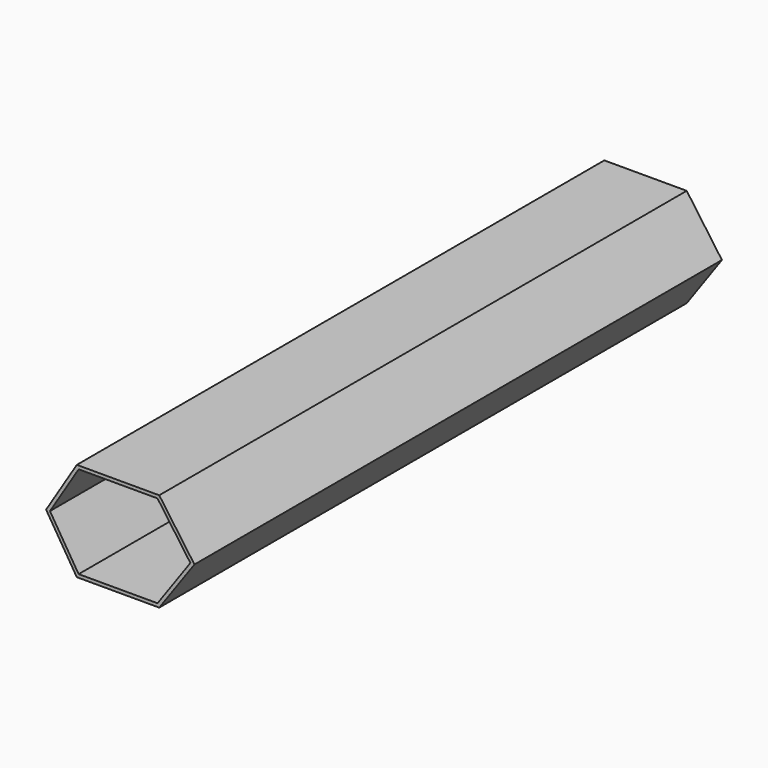
from build123d import *

# Parameters (mm, degrees)
F1_DEPTH = 254
F2_T     = -2.54


with BuildPart() as f1:
    # F0 (on Front) → F1 (new body, symmetric)
    with BuildSketch(Plane.XZ):
        Polygon((23.676884, 38.1), (-39.823116, 38.1), (-63.5, 0), (-39.823116, -38.1), (23.676884, -38.1), (50.8, 0), align=None)
    extrude(amount=F1_DEPTH, both=True)

    # F2
    f2_openings = [f1.faces().sort_by_distance(p)[0] for p in [
        (-7.129505, -254, 0),
    ]]
    offset(amount=F2_T, openings=f2_openings)


solid = f1.part
